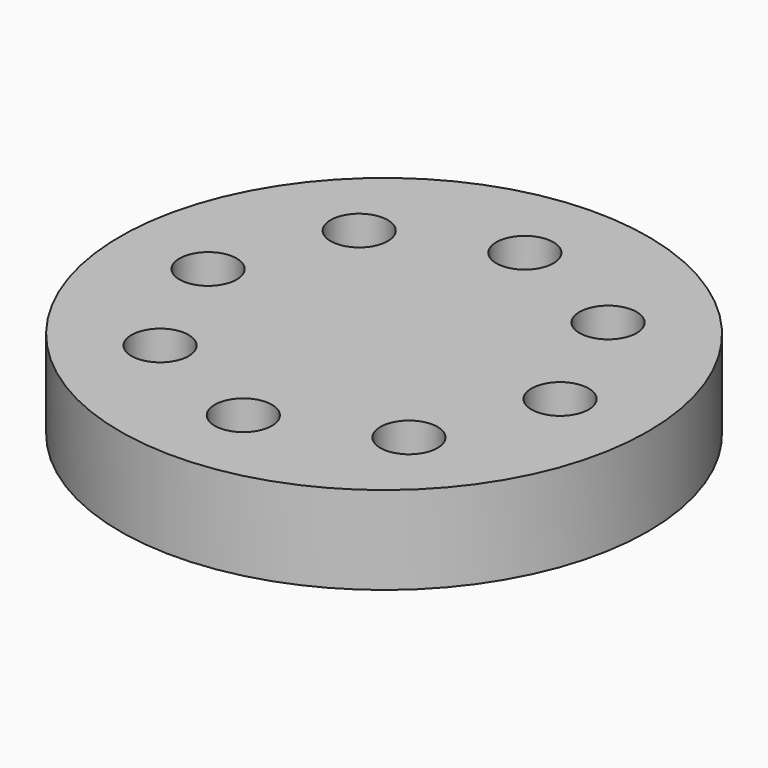
from build123d import *

# Parameters (mm, degrees)
F0_R     = 30
F0_R_2   = 3.25
F1_DEPTH = 10


with BuildPart() as f1:
    # F0 (on Top) → F1 (new body)
    with BuildSketch(Plane.XY):
        Circle(F0_R)
        with Locations((-14.142136, -14.142136)):
            Circle(F0_R_2, mode=Mode.SUBTRACT)
        with Locations((0, -20)):
            Circle(F0_R_2, mode=Mode.SUBTRACT)
        with Locations((14.142136, -14.142136)):
            Circle(F0_R_2, mode=Mode.SUBTRACT)
        with Locations((-20, 0)):
            Circle(F0_R_2, mode=Mode.SUBTRACT)
        with Locations((-14.142136, 14.142136)):
            Circle(F0_R_2, mode=Mode.SUBTRACT)
        with Locations((14.142136, 14.142136)):
            Circle(F0_R_2, mode=Mode.SUBTRACT)
        with Locations((20, 0)):
            Circle(F0_R_2, mode=Mode.SUBTRACT)
        with Locations((0, 20)):
            Circle(F0_R_2, mode=Mode.SUBTRACT)
    extrude(amount=F1_DEPTH)


solid = f1.part
